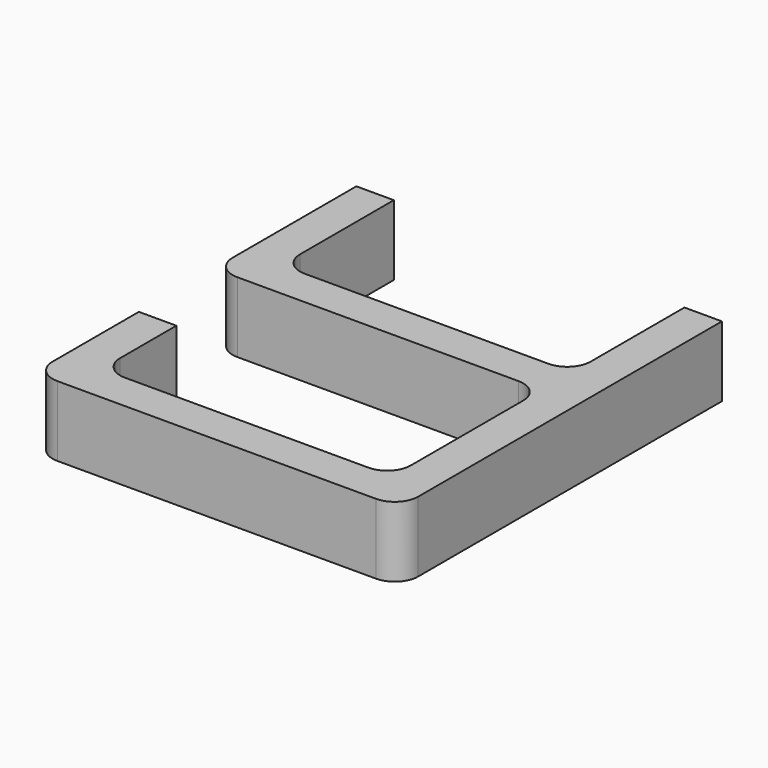
from build123d import *

# Parameters (mm, degrees)
F1_DEPTH = 9.525


with BuildPart() as f1:
    # F0 (on Top) → F1 (new body)
    with BuildSketch(Plane.XY):
        with BuildLine():
            ThreePointArc((19.685, -22.225), (18.755064, -24.470064), (16.51, -25.4))
            Line((16.51, -25.4), (-16.51, -25.4))
            ThreePointArc((-16.51, -25.4), (-18.755064, -24.470064), (-19.685, -22.225))
            Line((-19.685, -22.225), (-19.685, -6.35))
            Line((-19.685, -6.35), (-24.765, -6.35))
            Line((-24.765, -6.35), (-24.765, -27.305))
            ThreePointArc((-24.765, -27.305), (-23.835064, -29.550064), (-21.59, -30.48))
            Line((-21.59, -30.48), (16.51, -30.48))
            ThreePointArc((16.51, -30.48), (18.755064, -31.409936), (19.685, -33.655))
            Line((19.685, -33.655), (19.685, -52.705))
            ThreePointArc((19.685, -52.705), (18.755064, -54.950064), (16.51, -55.88))
            Line((16.51, -55.88), (-16.51, -55.88))
            ThreePointArc((-16.51, -55.88), (-18.755064, -54.950064), (-19.685, -52.705))
            Line((-19.685, -52.705), (-19.685, -43.18))
            Line((-19.685, -43.18), (-24.765, -43.18))
            Line((-24.765, -43.18), (-24.765, -55.88))
            Line((-24.765, -55.88), (-24.765, -57.785))
            ThreePointArc((-24.765, -57.785), (-23.835064, -60.030064), (-21.59, -60.96))
            Line((-21.59, -60.96), (21.59, -60.96))
            ThreePointArc((21.59, -60.96), (23.835064, -60.030064), (24.765, -57.785))
            Line((24.765, -57.785), (24.765, -6.35))
            Line((24.765, -6.35), (19.685, -6.35))
            Line((19.685, -6.35), (19.685, -22.225))
        make_face()
    extrude(amount=F1_DEPTH)


solid = f1.part
